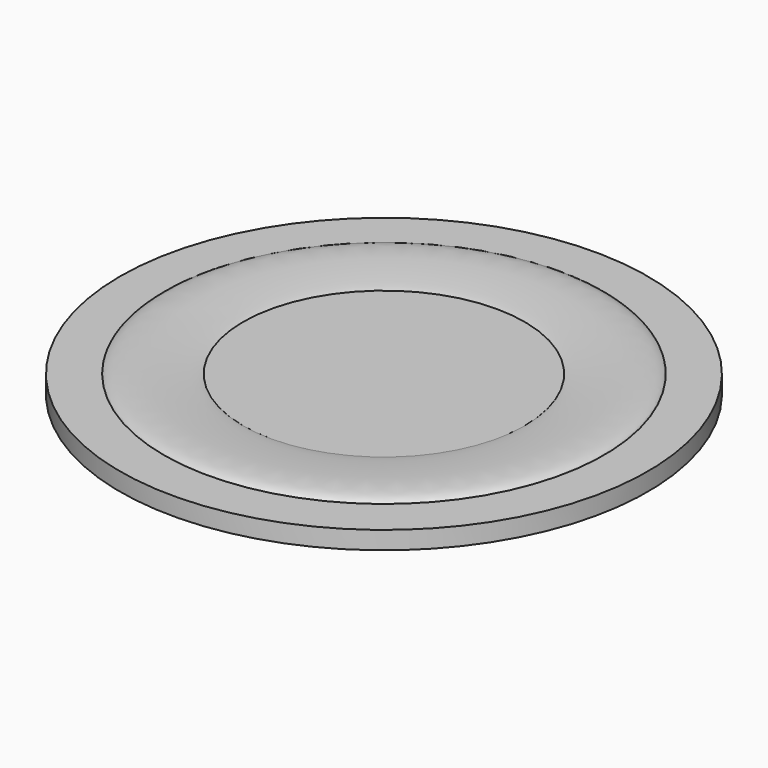
from build123d import *


with BuildPart() as f1:
    # F0 (on Front) → F1 (revolve)
    with BuildSketch(Plane.XZ):
        with BuildLine():
            Line((0, -10.1903555852), (0, 0))
            Line((0, 0), (-80, 0))
            add(Edge.make_bspline(
                [(-125.0555893085, 0), (-125, 0.2696634015), (-123.8717641978, 2.0653971564), (-111.4717659162, 3.6686380585), (-97.3466610361, 2.4244057621), (-86.6332866395, 1.2172777507), (-82.9737044734, 0.8377522722), (-80.380481667, 0.3406798235), (-80.1353301655, 0.0862470384), (-80, 0)],
                knots=[0, 0, 0, 0, 0.0784505753, 0.2924655412, 0.5401790612, 0.7412928705, 0.8622444841, 0.9574149951, 1, 1, 1, 1], degree=3))
            Line((-125.0555893085, 0), (-150, 0))
            Line((-150, 0), (-150, -10.1903555852))
            Line((-150, -10.1903555852), (0, -10.1903555852))
        make_face()
    revolve(axis=Axis((0, 0, -5.0951777926), (0, 0, 1)))


solid = f1.part
